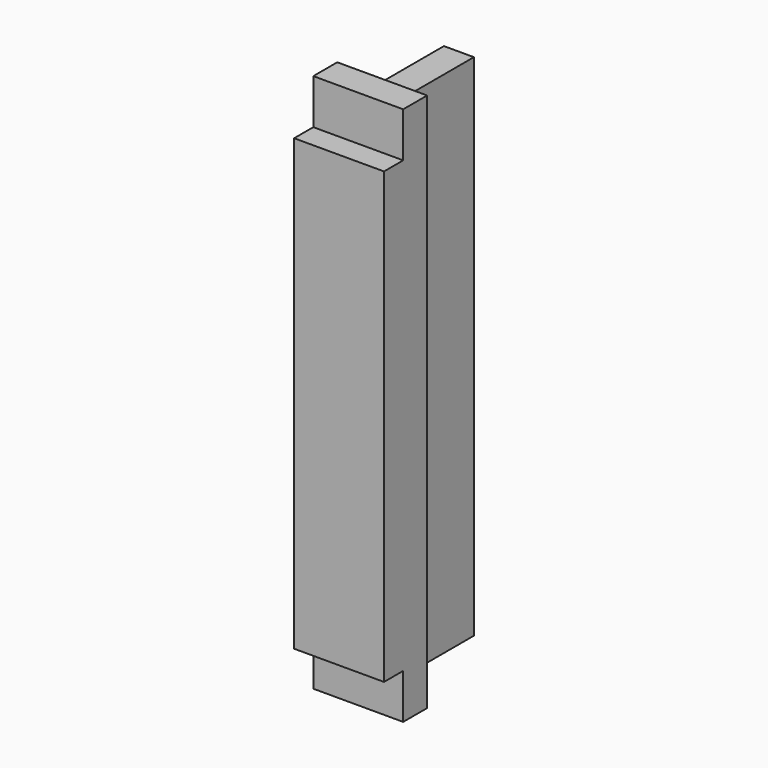
from build123d import *

# Parameters (mm, degrees)
SKETCH_W        = 30
SKETCH_H        = 50
PAD_DEPTH       = 180
SKETCH001_W     = 8
SKETCH001_H     = 15
SKETCH001_W_2   = 32
SKETCH001_H_2   = 5
POCKET_DEPTH    = 408.418759
SKETCH002_W     = 10
SKETCH002_H     = 32
POCKET001_DEPTH = 558.418759


with BuildPart() as part:
    # Sketch (on DatumPlane) → Pad (new body)
    with BuildSketch(Plane.XY.offset(90)):
        Rectangle(SKETCH_W, SKETCH_H)
    extrude(amount=-PAD_DEPTH)

    # Sketch001 (on DatumPlane) → Pocket (cut, through all)
    with BuildSketch(Plane.YZ.offset(15)):
        with Locations((-21, 82.5)):
            Rectangle(SKETCH001_W, SKETCH001_H)
        with Locations((9, 87.5)):
            Rectangle(SKETCH001_W_2, SKETCH001_H_2)
    pocket = extrude(amount=-POCKET_DEPTH, mode=Mode.SUBTRACT)

    # Mirrored: Pocket across XY
    add(pocket.mirror(Plane.XY), mode=Mode.SUBTRACT)

    # Sketch002 (on DatumPlane) → Pocket001 (cut, through all)
    with BuildSketch(Plane.XY.offset(90)):
        with Locations((10, 9)):
            Rectangle(SKETCH002_W, SKETCH002_H)
    pocket001 = extrude(amount=-POCKET001_DEPTH, mode=Mode.SUBTRACT)

    # Mirrored001: Pocket001 across Sketch002 V_Axis
    add(pocket001.mirror(Plane(origin=(0, 0, 90), x_dir=(0, 0, 1), z_dir=(1, 0, 0))), mode=Mode.SUBTRACT)


solid = part.part
